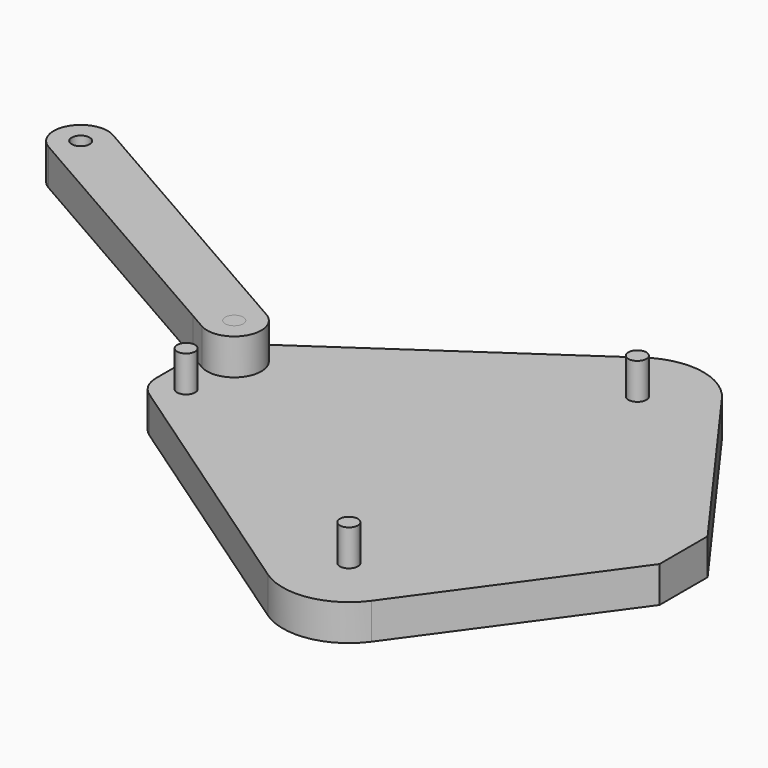
from build123d import *

# Parameters (mm, degrees)
F0_R     = 0.75
F1_DEPTH = 3
F2_DEPTH = 6
F3_R     = 0.75
F4_DEPTH = 3


with BuildPart() as f1:
    # F0 (on Top) → F1 (new body)
    with BuildSketch(Plane.XY):
        with BuildLine():
            ThreePointArc((4.454476, 18.226088), (5.232094, 16.695639), (5.5, 15))
            ThreePointArc((5.5, 15), (-2.563573, 10.133986), (-3.110215, 19.536139))
            Line((-3.110215, 19.536139), (-24.949642, 4.561882))
            ThreePointArc((-24.949642, 4.561882), (-22.370647, 4.711825), (-21.035907, 2.5))
            ThreePointArc((-21.035907, 2.5), (-21.76814, 0.732233), (-23.535907, 0))
            Line((-23.535907, 0), (15.843861, 0))
            Line((15.843861, 0), (15.843861, 2.5))
            Line((15.843861, 2.5), (4.454476, 18.226088))
        make_face()
        with BuildLine():
            ThreePointArc((-3.110215, 19.536139), (-2.563573, 10.133986), (5.5, 15))
            ThreePointArc((5.5, 15), (5.232094, 16.695639), (4.454476, 18.226088))
            ThreePointArc((4.454476, 18.226088), (0.938519, 20.419334), (-3.110215, 19.536139))
        make_face()
        with Locations((0, 15)):
            Circle(F0_R, mode=Mode.SUBTRACT)
        with BuildLine():
            ThreePointArc((-21.035907, 2.5), (-22.370647, 4.711825), (-24.949642, 4.561882))
            ThreePointArc((-24.949642, 4.561882), (-25.747732, 3.665261), (-26.035907, 2.5))
            ThreePointArc((-26.035907, 2.5), (-25.303674, 0.732233), (-23.535907, 0))
            ThreePointArc((-23.535907, 0), (-21.76814, 0.732233), (-21.035907, 2.5))
        make_face()
        with Locations((-23.535907, 2.5)):
            Circle(F0_R, mode=Mode.SUBTRACT)
        with BuildLine():
            ThreePointArc((-23.535907, 0), (-25.303674, 0.732233), (-26.035907, 2.5))
            Line((-26.035907, 2.5), (-26.035907, -2.5))
            ThreePointArc((-26.035907, -2.5), (-25.303674, -0.732233), (-23.535907, 0))
        make_face()
        with BuildLine():
            Line((15.843861, -2.5), (15.843861, 0))
            Line((15.843861, 0), (-23.535907, 0))
            ThreePointArc((-23.535907, 0), (-21.76814, -0.732233), (-21.035907, -2.5))
            ThreePointArc((-21.035907, -2.5), (-22.370647, -4.711825), (-24.949642, -4.561882))
            Line((-24.949642, -4.561882), (-3.110215, -19.536139))
            ThreePointArc((-3.110215, -19.536139), (-2.563573, -10.133986), (5.5, -15))
            ThreePointArc((5.5, -15), (5.232094, -16.695639), (4.454476, -18.226088))
            Line((4.454476, -18.226088), (15.843861, -2.5))
        make_face()
        with BuildLine():
            ThreePointArc((-3.110215, -19.536139), (0.938519, -20.419334), (4.454476, -18.226088))
            ThreePointArc((4.454476, -18.226088), (5.232094, -16.695639), (5.5, -15))
            ThreePointArc((5.5, -15), (-2.563573, -10.133986), (-3.110215, -19.536139))
        make_face()
        with Locations((0, -15)):
            Circle(F0_R, mode=Mode.SUBTRACT)
        with BuildLine():
            ThreePointArc((-21.035907, -2.5), (-21.76814, -0.732233), (-23.535907, 0))
            ThreePointArc((-23.535907, 0), (-25.303674, -0.732233), (-26.035907, -2.5))
            ThreePointArc((-26.035907, -2.5), (-25.747732, -3.665261), (-24.949642, -4.561882))
            ThreePointArc((-24.949642, -4.561882), (-22.370647, -4.711825), (-21.035907, -2.5))
        make_face()
        with Locations((-23.535907, -2.5)):
            Circle(F0_R, mode=Mode.SUBTRACT)
    extrude(amount=F1_DEPTH)


with BuildPart() as f2:
    # F0 (on Top) → F2 (new body)
    with BuildSketch(Plane.XY):
        with Locations((0, 15)):
            Circle(F0_R)
        with Locations((-23.535907, 2.5)):
            Circle(F0_R)
        with Locations((-23.535907, -2.5)):
            Circle(F0_R)
        with Locations((0, -15)):
            Circle(F0_R)
    extrude(amount=F2_DEPTH)


with BuildPart() as f4:
    # F3 (on face) → F4 (new body)
    with BuildSketch(Plane.XY.offset(3)):
        with BuildLine():
            Line((-26.035907, 1.338844), (-24.654042, 0.547495))
            ThreePointArc((-24.654042, 0.547495), (-21.583403, 1.381865), (-22.417772, 4.452505))
            Line((-22.417772, 4.452505), (-23.884299, 5.292336))
            Line((-23.884299, 5.292336), (-24.949642, 4.561882))
            ThreePointArc((-24.949642, 4.561882), (-25.747732, 3.665261), (-26.035907, 2.5))
            Line((-26.035907, 2.5), (-26.035907, 1.338844))
        make_face()
        with Locations((-23.535907, 2.5)):
            Circle(F3_R, mode=Mode.SUBTRACT)
        with BuildLine():
            Line((-48.223828, 14.045136), (-26.035907, 1.338844))
            Line((-26.035907, 1.338844), (-26.035907, 2.5))
            ThreePointArc((-26.035907, 2.5), (-25.747732, 3.665261), (-24.949642, 4.561882))
            Line((-24.949642, 4.561882), (-23.884299, 5.292336))
            Line((-23.884299, 5.292336), (-45.987558, 17.950145))
            ThreePointArc((-45.987558, 17.950145), (-49.058198, 17.115776), (-48.223828, 14.045136))
        make_face()
        with Locations((-47.105693, 15.997641)):
            Circle(F3_R, mode=Mode.SUBTRACT)
    extrude(amount=F4_DEPTH)


solid = Compound([f1.part, f2.part, f4.part])
